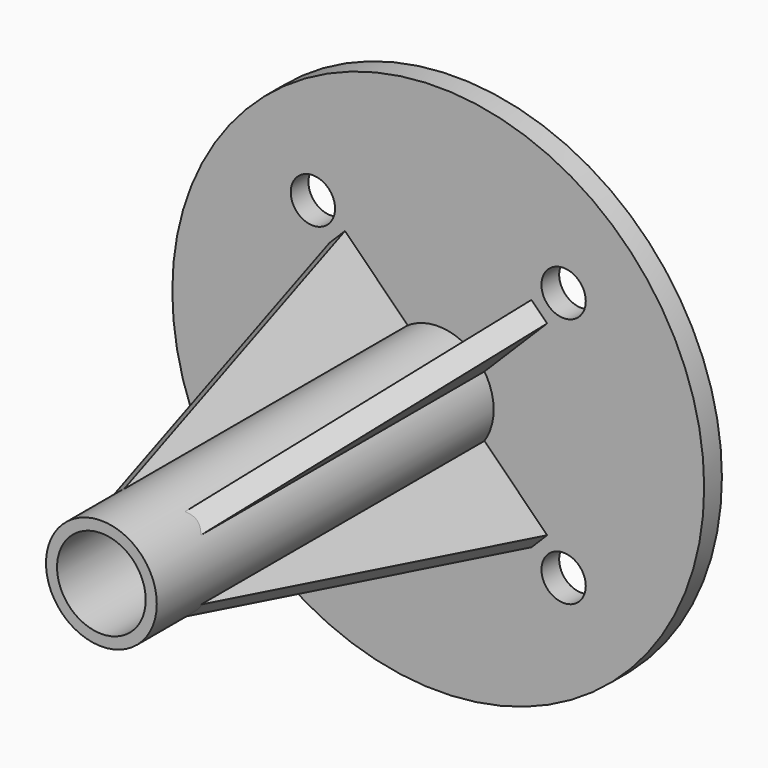
from build123d import *

# Parameters (mm, degrees)
F0_R      = 15.875
F0_R_2    = 12.7
F1_DEPTH  = 127
F2_R      = 76.2
F2_R_2    = 6.35
F2_R_3    = 15.875
F3_DEPTH  = 6.35
F6_DEPTH  = 101.6
F8_DEPTH  = 110.9390734528
F10_COUNT = 4


with BuildPart() as f1:
    # F0 (on Front) → F1 (new body)
    with BuildSketch(Plane.XZ):
        Circle(F0_R)
        Circle(F0_R_2, mode=Mode.SUBTRACT)
    extrude(amount=F1_DEPTH)


with BuildPart() as f3:
    # F2 (on Front) → F3 (new body)
    with BuildSketch(Plane.XZ):
        Circle(F2_R)
        with Locations((-35.9210244843, -35.9210244843)):
            Circle(F2_R_2, mode=Mode.SUBTRACT)
        with Locations((35.9210244843, -35.9210244843)):
            Circle(F2_R_2, mode=Mode.SUBTRACT)
        with Locations((-35.9210244843, 35.9210244843)):
            Circle(F2_R_2, mode=Mode.SUBTRACT)
        Circle(F2_R_3, mode=Mode.SUBTRACT)
        with Locations((35.9210244843, 35.9210244843)):
            Circle(F2_R_2, mode=Mode.SUBTRACT)
    extrude(amount=F3_DEPTH)


with BuildPart() as f6:
    # F5 (on offset) → F6 (new body)
    with BuildSketch(Plane.XZ.offset(6.35)):
        with BuildLine():
            ThreePointArc((8.7534585978, 13.2435866583), (11.2253201513, 11.2253201513), (13.2435866583, 8.7534585978))
            Line((13.2435866583, 8.7534585978), (31.2040989005, 26.7139708399))
            Line((31.2040989005, 26.7139708399), (26.7139708399, 31.2040989005))
            Line((26.7139708399, 31.2040989005), (8.7534585978, 13.2435866583))
        make_face()
    extrude(amount=F6_DEPTH)

    # F7 (on face) → F8 (cut, through all)
    with BuildSketch(Plane(origin=(2.2450640303, 0, -2.2450640303), x_dir=(0, 1, 0), z_dir=(0.7071067812, 0, -0.7071067812))):
        Polygon((-107.95, 15.5542598667), (-6.35, 40.9542598667), (-107.95, 40.9542598667), align=None)
    extrude(amount=-F8_DEPTH, mode=Mode.SUBTRACT)


with BuildPart() as f10_1:
    # F10: instance of F6
    add(f6.part.rotate(Axis((0, -77.9834911227, 0), (0, -1, 0)), 1 * 360 / F10_COUNT))


with BuildPart() as f10_2:
    # F10: instance of F6
    add(f6.part.rotate(Axis((0, -77.9834911227, 0), (0, -1, 0)), 2 * 360 / F10_COUNT))


with BuildPart() as f10_3:
    # F10: instance of F6
    add(f6.part.rotate(Axis((0, -77.9834911227, 0), (0, -1, 0)), 3 * 360 / F10_COUNT))


solid = Compound([f1.part, f3.part, f6.part, f10_1.part, f10_2.part, f10_3.part])
